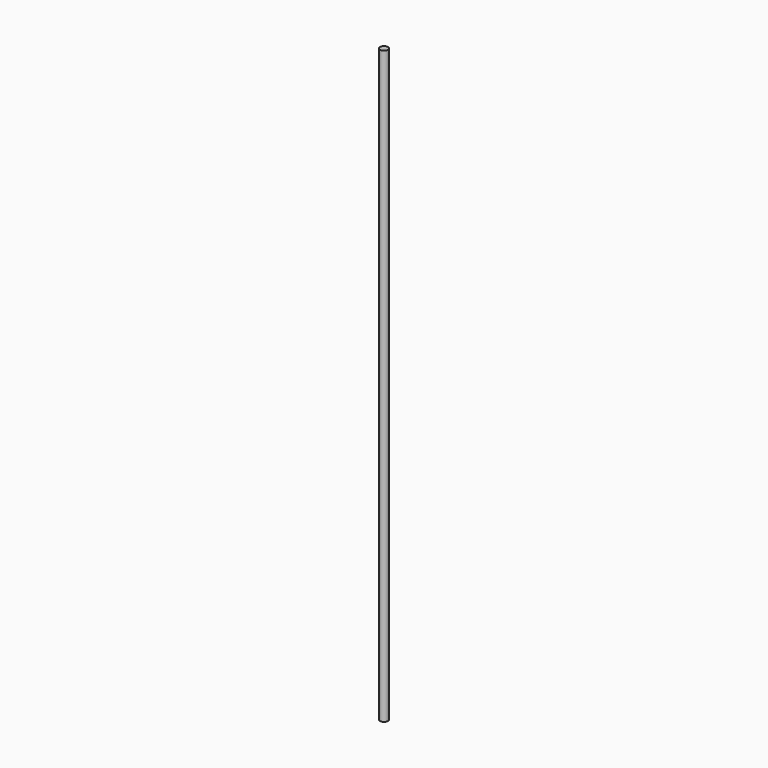
from build123d import *

# Parameters (mm, degrees)
SKETCH_R  = 4
PAD_DEPTH = 600


with BuildPart() as part:
    # Sketch → Pad (new body)
    with BuildSketch(Plane.XY):
        Circle(SKETCH_R)
    extrude(amount=PAD_DEPTH)


solid = part.part
